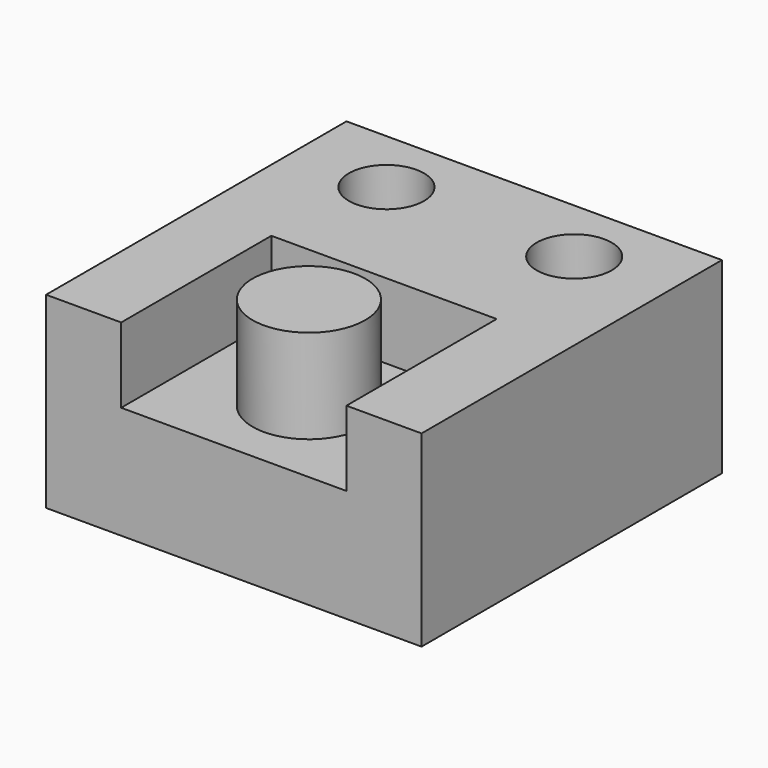
from build123d import *

# Parameters (mm, degrees)
F0_W     = 100
F0_H     = 100
F1_DEPTH = 50
F2_W     = 60
F2_H     = 50
F2_R     = 10
F3_DEPTH = 20
F4_R     = 15
F5_DEPTH = 25


with BuildPart() as f1:
    # F0 (on Top) → F1 (new body)
    with BuildSketch(Plane.XY):
        Rectangle(F0_W, F0_H)
    extrude(amount=F1_DEPTH)

    # F2 (on face) → F3 (cut)
    with BuildSketch(Plane.XY.offset(50)):
        with Locations((0, -25)):
            Rectangle(F2_W, F2_H)
        with Locations((-25, 32.067757)):
            Circle(F2_R)
        with Locations((25, 32.067757)):
            Circle(F2_R)
    extrude(amount=-F3_DEPTH, mode=Mode.SUBTRACT)

    # F4 (on face) → F5 (join)
    with BuildSketch(Plane.XY.offset(30)):
        with Locations((0, -25)):
            Circle(F4_R)
    extrude(amount=F5_DEPTH)


solid = f1.part
